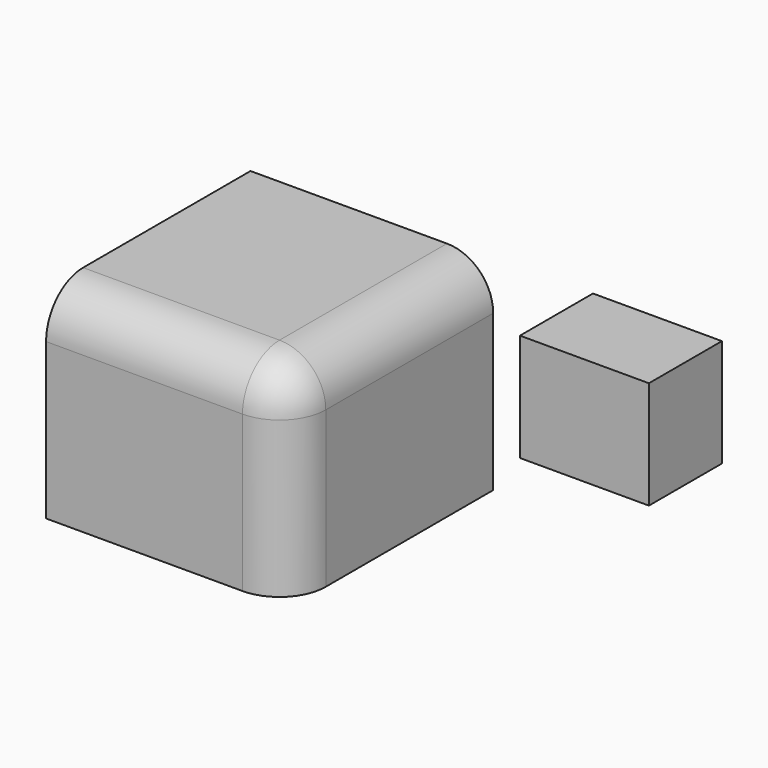
from build123d import *

# Parameters (mm, degrees)
F0_W     = 67.543469
F0_H     = 56.228885
F1_DEPTH = 71.12
F2_R     = 12.877415
F3_W     = 35.889428
F3_H     = 29.987364
F4_DEPTH = 25.4


with BuildPart() as f1:
    # F0 (on Front) → F1 (new body)
    with BuildSketch(Plane.XZ):
        with Locations((-33.771735, 8.339288)):
            Rectangle(F0_W, F0_H)
    extrude(amount=F1_DEPTH)

    # F2
    f2_edges = [f1.edges().sort_by_distance(p)[0] for p in [
        (-33.771735, -71.12, 36.453731),
        (0, -35.56, 36.453731),
        (0, -71.12, 8.339289),
    ]]
    fillet(f2_edges, radius=F2_R)


with BuildPart() as f4:
    # F3 (on Front) → F4 (new body)
    with BuildSketch(Plane.XZ):
        with Locations((45.716846, 22.44832)):
            Rectangle(F3_W, F3_H)
    extrude(amount=F4_DEPTH)


solid = Compound([f1.part, f4.part])
